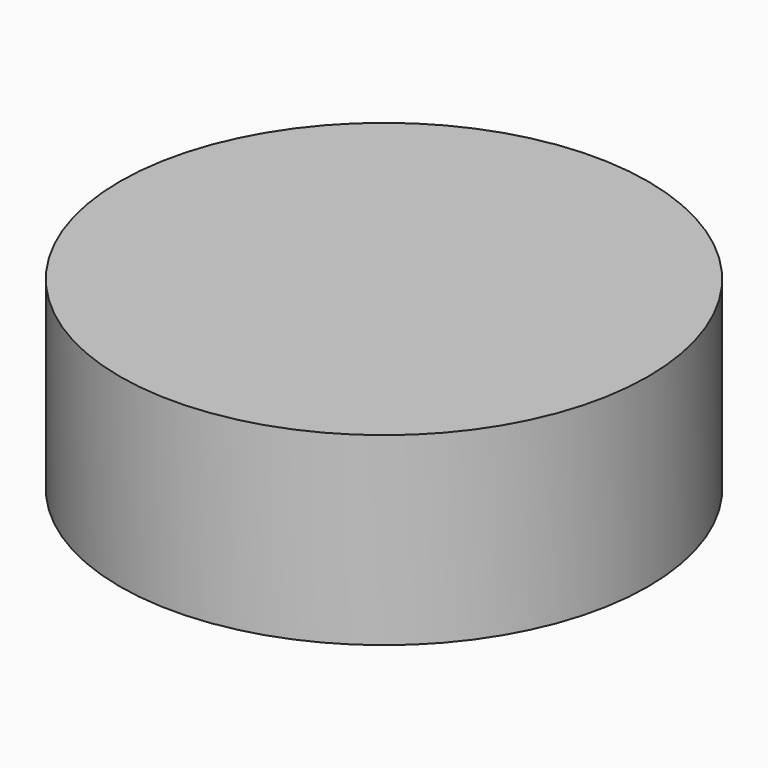
from build123d import *

# Parameters (mm, degrees)
F0_R     = 60
F1_DEPTH = 6
F2_R     = 60
F2_R_2   = 58
F3_DEPTH = 30
F4_R     = 60
F5_DEPTH = 6


with BuildPart() as f1:
    # F0 (on Top) → F1 (new body)
    with BuildSketch(Plane.XY):
        Circle(F0_R)
    extrude(amount=F1_DEPTH)

    # F2 (on face) → F3 (join)
    with BuildSketch(Plane(origin=(0, 0, 0), x_dir=(1, 0, 0), z_dir=(0, 0, -1))):
        Circle(F2_R)
        Circle(F2_R_2, mode=Mode.SUBTRACT)
    extrude(amount=F3_DEPTH)

    # F4 (on face) → F5 (join)
    with BuildSketch(Plane(origin=(0, 0, -30), x_dir=(1, 0, 0), z_dir=(0, 0, -1))):
        Circle(F4_R)
    extrude(amount=F5_DEPTH)


solid = f1.part
